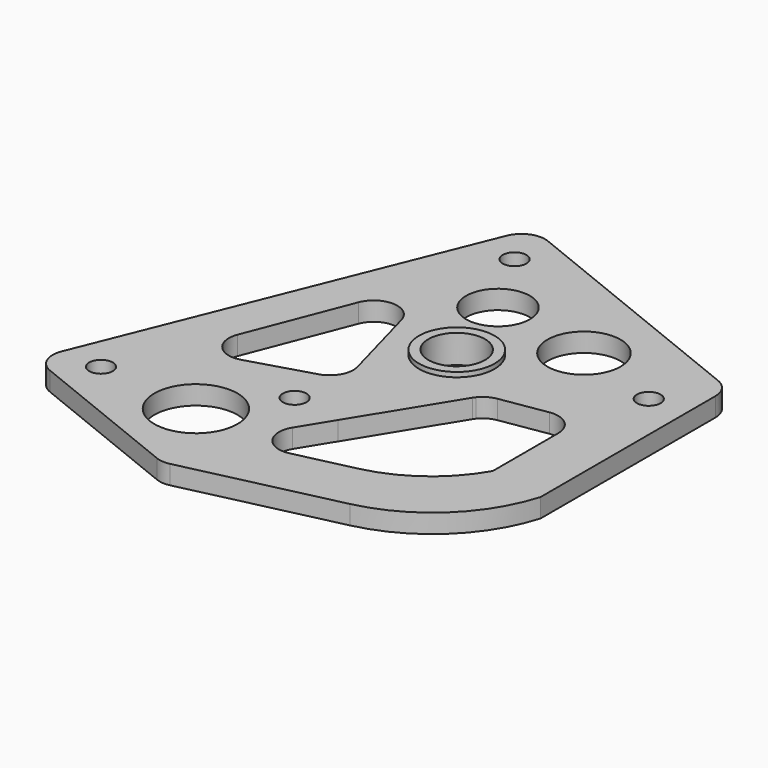
from build123d import *

# Parameters (mm, degrees)
F0_R          = 20.4
F0_R_2        = 18.9
F1_DEPTH      = 4
F0_R_3        = 2.5
F0_R_4        = 8
F2_DEPTH      = 4
F3_DEPTH      = 4
F4_R          = 5
F4_R_2        = 2.5
F5_DEPTH      = 6
F4_R_3        = 1.5
F6_DEPTH      = 6
F4_R_4        = 8
F4_R_5        = 6
F7_DEPTH      = 5
F7_DEPTH_BACK = 1
F8_R          = 5
F9_D          = 5
F4_R_6        = 6.7492124295
F4_R_7        = 8.8034997794
F4_R_8        = 7.7469148922
F10_DEPTH     = 6.001


with BuildPart() as f1:
    # F0 (on Top) → F1 (new body)
    with BuildSketch(Plane.XY):
        Circle(F0_R)
        Circle(F0_R_2, mode=Mode.SUBTRACT)
    extrude(amount=-F1_DEPTH)

    # F0 (on Top) → F2 (join)
    with BuildSketch(Plane.XY):
        with BuildLine():
            Line((-37.9369594157, 71.9021782279), (-73.2717439532, -15.7500002533))
            Line((-73.2717439532, -15.7500002533), (-33.7380266771, -31.6870300696))
            Line((-33.7380266771, -31.6870300696), (0, -23.96739088))
            ThreePointArc((0, -23.96739088), (14.4587631047, -16.2687135057), (23.0604634443, -2.3282610346))
            Line((23.0604634443, -2.3282610346), (23.0604634443, 47.3125920767))
            Line((23.0604634443, 47.3125920767), (-37.9369594157, 71.9021782279))
        make_face()
        with Locations((-30.9, 0)):
            Circle(F0_R_3, mode=Mode.SUBTRACT)
        Circle(F0_R, mode=Mode.SUBTRACT)
        with Locations((-19.5403950401, 28.736203214)):
            Circle(F0_R_4, mode=Mode.SUBTRACT)
    extrude(amount=-F2_DEPTH)

    # F0 (on Top) → F3 (join)
    with BuildSketch(Plane.XY):
        Circle(F0_R_2)
    extrude(amount=-F3_DEPTH)

    # F4 (on face) → F5 (join)
    with BuildSketch(Plane.XY):
        with Locations((-30.8152195066, 0)):
            Circle(F4_R)
        with Locations((-30.9, 0)):
            Circle(F4_R_2, mode=Mode.SUBTRACT)
    extrude(amount=-F5_DEPTH)

    # F4 (on face) → F6 (join)
    with BuildSketch(Plane.XY):
        with Locations((15.0604634443, 36.3125920767)):
            Circle(F4_R)
        with Locations((15.0604634443, 36.3125920767)):
            Circle(F4_R_3, mode=Mode.SUBTRACT)
        with Locations((-33.5082715717, 61.4912837428)):
            Circle(F4_R)
        with Locations((-33.5082715717, 61.4912837428)):
            Circle(F4_R_3, mode=Mode.SUBTRACT)
        with Locations((-62.8608494681, -11.3213124094)):
            Circle(F4_R)
        with Locations((-62.8608494681, -11.3213124094)):
            Circle(F4_R_3, mode=Mode.SUBTRACT)
    extrude(amount=-F6_DEPTH)

    # F4 (on face) → F7 (join, two sides)
    with BuildSketch(Plane.XY) as f7_sk:
        with Locations((-19.5403950401, 28.736203214)):
            Circle(F4_R_4)
        with Locations((-19.5659566671, 28.7475492805)):
            Circle(F4_R_5, mode=Mode.SUBTRACT)
    extrude(amount=-F7_DEPTH)
    extrude(f7_sk.sketch, amount=F7_DEPTH_BACK)

    # F8
    f8_edges = [f1.edges().sort_by_distance(p)[0] for p in [
        (-73.271744, -15.75, -2),
        (-37.936959, 71.902178, -2),
        (23.060463, 47.312592, -2),
        (-33.738027, -31.68703, -2),
    ]]
    fillet(f8_edges, radius=F8_R)

    # F9 (through all)
    with Locations(Plane.XY):
        with Locations((-33.5082715717, 61.4912837428), (15.0604634443, 36.3125920767), (-62.8608494681, -11.3213124094)):
            Hole(F9_D / 2)

    # F4 (on face) → F10 (cut, through all)
    with BuildSketch(Plane.XY):
        with Locations((-24.8405560851, 46.2679713964)):
            Circle(F4_R_6)
        with BuildLine():
            ThreePointArc((-34.5543373603, 32.8433099638), (-39.1188131875, 36.5180985692), (-44.0384065292, 33.3343724152))
            Line((-44.0384065292, 33.3343724152), (-52.4302117947, 11.7191193495))
            ThreePointArc((-52.4302117947, 11.7191193495), (-51.444320935, 6.5193730929), (-46.340876706, 5.1178742801))
            Line((-46.340876706, 5.1178742801), (-33.1174276827, 9.0594797734))
            ThreePointArc((-33.1174276827, 9.0594797734), (-30.1749819218, 11.422822336), (-29.7226936025, 15.1696623914))
            Line((-29.7226936025, 15.1696623914), (-34.5543373603, 32.8433099638))
        make_face()
        with BuildLine():
            Line((5.2675922587, 22.2754651912), (-4.5154558015, 20.7042452523))
            ThreePointArc((-4.5154558015, 20.7042452523), (-6.2156561453, 20.1016297559), (-7.5913755862, 18.9349152813))
            ThreePointArc((-7.5913755862, 18.9349152813), (1.9526532516, 20.3063326398), (11.0604634443, 17.1413578341))
            Line((11.0604634443, 17.1413578341), (11.0604634443, 17.3387299053))
            ThreePointArc((11.0604634443, 17.3387299053), (9.3035826274, 21.1442755907), (5.2675922587, 22.2754651912))
        make_face()
        with BuildLine():
            ThreePointArc((11.0604634443, 17.1413578341), (1.9526532516, 20.3063326398), (-7.5913755862, 18.9349152813))
            ThreePointArc((-7.5913755862, 18.9349152813), (-7.7960820291, 18.6669269466), (-7.9822585437, 18.3857494569))
            Line((-7.9822585437, 18.3857494569), (-20.3289314836, -1.7013361619))
            ThreePointArc((-20.3289314836, -1.7013361619), (-18.3724422175, -8.866417933), (-13.9804985925, -14.8561656932))
            Line((-13.9804985925, -14.8561656932), (-6.7808091525, -13.2087959378))
            ThreePointArc((-6.7808091525, -13.2087959378), (3.5211433289, -8.4701576249), (11.0604634443, 0))
            Line((11.0604634443, 0), (11.0604634443, 17.1413578341))
        make_face()
        with BuildLine():
            ThreePointArc((-13.9804985925, -14.8561656932), (-18.3724422175, -8.866417933), (-20.3289314836, -1.7013361619))
            Line((-20.3289314836, -1.7013361619), (-24.5383981985, -8.5498141869))
            ThreePointArc((-24.5383981985, -8.5498141869), (-24.341412043, -14.0825979067), (-19.1634895492, -16.0420921996))
            Line((-19.1634895492, -16.0420921996), (-13.9804985925, -14.8561656932))
        make_face()
        with Locations((-41.2170253694, -13.2419364527)):
            Circle(F4_R_7)
        with Locations((-3.5378288012, 42.4071475863)):
            Circle(F4_R_8)
    extrude(amount=-F10_DEPTH, mode=Mode.SUBTRACT)


solid = f1.part
